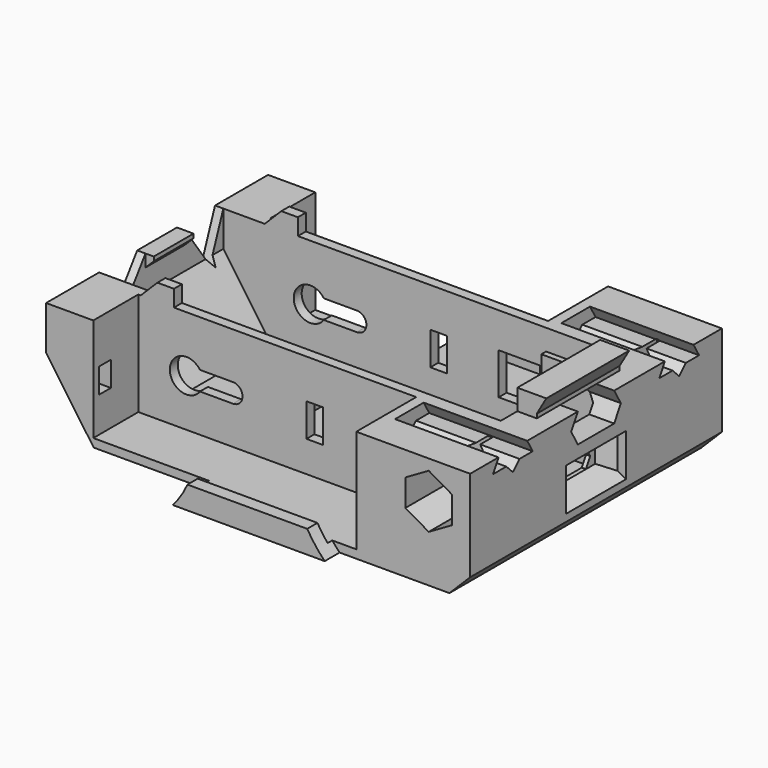
from build123d import *

# Parameters (mm, degrees)
SKETCH001_W          = 113
SKETCH001_H          = 85
PAD001_DEPTH         = 25
POCKET_DEPTH         = 36.5
SKETCH003_W          = 67.1
SKETCH003_H          = 19.5
POCKET001_DEPTH      = 61.5
POCKET002_DEPTH      = 17.5
SKETCH005_W          = 4
SKETCH005_H          = 8
SKETCH005_W_2        = 10
SKETCH005_H_2        = 10
POCKET003_DEPTH      = 42.501
POCKET003_DEPTH_BACK = 42.501
SKETCH006_W          = 3.6
SKETCH006_H          = 6
POCKET004_DEPTH      = 17
SKETCH007_W          = 250
SKETCH007_H          = 80
POCKET005_DEPTH      = 112.501
SKETCH008_R          = 30
POCKET006_DEPTH      = 32
POCKET007_DEPTH      = 18.5
POCKET008_DEPTH      = 25
SKETCH012_W          = 37.5
SKETCH012_H          = 25
POCKET009_DEPTH      = 20
SKETCH026_W          = 5
SKETCH026_H          = 10
PAD008_DEPTH         = 5
POCKET014_DEPTH      = 63.501
POCKET015_DEPTH      = 15
SKETCH029_W          = 1.43005
SKETCH029_H          = 20
PAD009_DEPTH         = 20
POCKET016_DEPTH      = 9
CHAMFER_SIZE         = 3
POCKET017_DEPTH      = 15
SKETCH032_W          = 21
SKETCH032_H          = 11.5
POCKET018_DEPTH      = 41


with BuildPart() as part:
    # Sketch001 → Pad001 (new body, symmetric)
    with BuildSketch(Plane.XY):
        with Locations((26.5, 0)):
            Rectangle(SKETCH001_W, SKETCH001_H)
    extrude(amount=PAD001_DEPTH, both=True)

    # Sketch002 (on DatumPlane) → Pocket (cut)
    with BuildSketch(Plane.XZ.offset(70)):
        with BuildLine():
            ThreePointArc((0, -20), (10.954451, -16.733201), (18.330303, -8))
            Line((18.330303, -8), (55.5, -8))
            Line((55.5, -8), (55.5, 20))
            Line((55.5, 20), (-30, 20))
            Line((-30, 20), (-30, -20))
            Line((-30, -20), (0, -20))
        make_face()
    pocket = extrude(amount=-POCKET_DEPTH, mode=Mode.SUBTRACT)

    # Mirrored: Pocket across XZ
    add(pocket.mirror(Plane.XZ), mode=Mode.SUBTRACT)

    # Sketch003 (on DatumPlane) → Pocket001 (cut)
    with BuildSketch(Plane.XY.offset(50)):
        with Locations((21.95, -29.65)):
            Rectangle(SKETCH003_W, SKETCH003_H)
        with Locations((21.95, 29.65)):
            Rectangle(SKETCH003_W, SKETCH003_H)
    extrude(amount=-POCKET001_DEPTH, mode=Mode.SUBTRACT)

    # Sketch004 (on DatumPlane) → Pocket002 (cut, symmetric)
    with BuildSketch(Plane.XZ):
        Polygon((-21, 4.923702), (-9.5, -11.5), (77, -11.5), (77, 8.5), (74, 11.5), (74, 38.5), (-21, 38.5), (-21, 13.5), (-19, 13.5), (-19, 12.5), (-21, 10.5), align=None)
    extrude(amount=POCKET002_DEPTH, both=True, mode=Mode.SUBTRACT)

    # Sketch005 (on DatumPlane) → Pocket003 (cut, two sides)
    with BuildSketch(Plane.XZ) as pocket003_sk:
        with Locations((31, 0)):
            Rectangle(SKETCH005_W, SKETCH005_H)
        with Locations((50.5, 0)):
            Rectangle(SKETCH005_W_2, SKETCH005_H_2)
        with BuildLine():
            ThreePointArc((3.272614, 2.3), (-4, 0), (3.272614, -2.3))
            Line((11.25, -2.3), (3.272614, -2.3))
            ThreePointArc((11.25, -2.3), (13.55, 0), (11.25, 2.3))
            Line((11.25, 2.3), (3.272614, 2.3))
        make_face()
    extrude(amount=-POCKET003_DEPTH, mode=Mode.SUBTRACT)
    extrude(pocket003_sk.sketch, amount=POCKET003_DEPTH_BACK, mode=Mode.SUBTRACT)

    # Sketch006 (on DatumPlane) → Pocket004 (cut)
    with BuildSketch(Plane.YZ):
        with Locations((-30, 0)):
            Rectangle(SKETCH006_W, SKETCH006_H)
        with Locations((30, 0)):
            Rectangle(SKETCH006_W, SKETCH006_H)
    extrude(amount=-POCKET004_DEPTH, mode=Mode.SUBTRACT)

    # Sketch007 (on DatumPlane) → Pocket005 (cut, through all)
    with BuildSketch(Plane.XZ.offset(70)):
        Rectangle(SKETCH007_W, SKETCH007_H)
        Polygon((-11.5, -13.5), (78, -13.5), (83, -8.5), (83, 13.5), (78.690599, 13.5), (78.690599, 14.5), (81, 18.5), (74, 18.5), (74, 13.5), (-3, 13.5), (-3, 17.5), (-7, 17.5), (-11, 13.5), (-23, 13.5), (-23, 2.923702), align=None, mode=Mode.SUBTRACT)
    extrude(amount=-POCKET005_DEPTH, mode=Mode.SUBTRACT)

    # Sketch008 (on DatumPlane) → Pocket006 (cut)
    with BuildSketch(Plane.XZ.offset(70)):
        with Locations((73, 7.4)):
            Circle(SKETCH008_R)
    pocket006 = extrude(amount=-POCKET006_DEPTH, mode=Mode.SUBTRACT)

    # Mirrored001: Pocket006 across XZ
    add(pocket006.mirror(Plane.XZ), mode=Mode.SUBTRACT)

    # Sketch009 (on DatumPlane) → Pocket007 (cut)
    with BuildSketch(Plane.XZ.offset(38)):
        Polygon((73, 10.9), (67.370835, 7.65), (67.370835, 1.15), (73, -2.1), (78.629165, 1.15), (78.629165, 7.65), align=None)
    pocket007 = extrude(amount=-POCKET007_DEPTH, mode=Mode.SUBTRACT)

    # Sketch010 (on DatumPlane) → Pocket008 (cut)
    with BuildSketch(Plane.YZ.offset(83)):
        Polygon((-27.1, 10.6), (-25.1, 8.6), (-23.1, 10.6), (-19.1, 10.6), (-21.986751, 15.6), (-28.213249, 15.6), (-31.1, 10.6), align=None)
    pocket008 = extrude(amount=-POCKET008_DEPTH, mode=Mode.SUBTRACT)

    # Sketch012 (on DatumPlane) → Pocket009 (cut)
    with BuildSketch(Plane.YZ.offset(83)):
        with Locations((-31.25, 26)):
            Rectangle(SKETCH012_W, SKETCH012_H)
        with Locations((31.25, 26)):
            Rectangle(SKETCH012_W, SKETCH012_H)
    extrude(amount=-POCKET009_DEPTH, mode=Mode.SUBTRACT)

    # Mirrored002: Pocket007 across XZ
    add(pocket007.mirror(Plane.XZ), mode=Mode.SUBTRACT)

    # Mirrored003: Pocket008 across XZ
    add(pocket008.mirror(Plane.XZ), mode=Mode.SUBTRACT)

    # Sketch026 (on DatumPlane) → Pad008 (join, symmetric)
    with BuildSketch(Plane.XZ):
        with Locations((11.5, -6.5)):
            Rectangle(SKETCH026_W, SKETCH026_H)
    extrude(amount=PAD008_DEPTH, both=True)

    # Sketch027 (on DatumPlane) → Pocket014 (cut, through all)
    with BuildSketch(Plane.XY.offset(50)):
        Polygon((24, 0), (25.443376, -2.5), (28.330127, -2.5), (43.669873, -2.5), (46.556624, -2.5), (48, 0), (46.556624, 2.5), (43.669873, 2.5), (28.330127, 2.5), (25.443376, 2.5), align=None)
    extrude(amount=-POCKET014_DEPTH, mode=Mode.SUBTRACT)

    # Sketch028 (on DatumPlane) → Pocket015 (cut)
    with BuildSketch(Plane.YZ.offset(83)):
        Polygon((-4.5, -1.65), (-3.200962, -3.9), (-0.602886, -3.9), (0.602886, -3.9), (3.200962, -3.9), (4.5, -1.65), (3.200962, 0.6), (0.602886, 0.6), (-0.602886, 0.6), (-3.200962, 0.6), align=None)
        Polygon((-7.5, 10), (-5.479274, 6.5), (-1.437822, 6.5), (1.437822, 6.5), (5.479274, 6.5), (7.5, 10), (5.479274, 13.5), (1.437822, 13.5), (-1.437822, 13.5), (-5.479274, 13.5), align=None)
    extrude(amount=-POCKET015_DEPTH, mode=Mode.SUBTRACT)

    # Sketch029 (on DatumPlane) → Pad009 (join)
    with BuildSketch(Plane(origin=(77, 0, 0), x_dir=(0, -1, 0), z_dir=(-1, 0, 0))):
        with Locations((-16.715025, -1.5)):
            Rectangle(SKETCH029_W, SKETCH029_H)
        with Locations((16.715025, -1.5)):
            Rectangle(SKETCH029_W, SKETCH029_H)
    extrude(amount=PAD009_DEPTH)

    # Sketch030 (on DatumPlane) → Pocket016 (cut, symmetric)
    with BuildSketch(Plane.XZ):
        Polygon((83, 3.486751), (78, 0.6), (78, -3.9), (83, -6.786751), align=None)
    extrude(amount=POCKET016_DEPTH, both=True, mode=Mode.SUBTRACT)

    # Chamfer
    chamfer_edges = [part.edges().sort_by_distance(p)[0] for p in [
        (78, -9, -1.65),
        (78, 9, -1.65),
    ]]
    chamfer(chamfer_edges, length=CHAMFER_SIZE)

    # Sketch031 (on DatumPlane) → Pocket017 (cut)
    with BuildSketch(Plane(origin=(-30, 0, 0), x_dir=(0, -1, 0), z_dir=(-1, 0, 0))):
        Polygon((-17.5, 13.5), (-13.5, 3), (-6, 13.5), align=None)
        Polygon((6, 13.5), (13.5, 3), (17.5, 13.5), align=None)
    extrude(amount=-POCKET017_DEPTH, mode=Mode.SUBTRACT)

    # Sketch032 (on DatumPlane) → Pocket018 (cut)
    with BuildSketch(Plane.XY.offset(50)):
        with Locations((-10.5, 11.75)):
            Rectangle(SKETCH032_W, SKETCH032_H)
        with Locations((-10.5, -11.75)):
            Rectangle(SKETCH032_W, SKETCH032_H)
    extrude(amount=-POCKET018_DEPTH, mode=Mode.SUBTRACT)


solid = part.part
